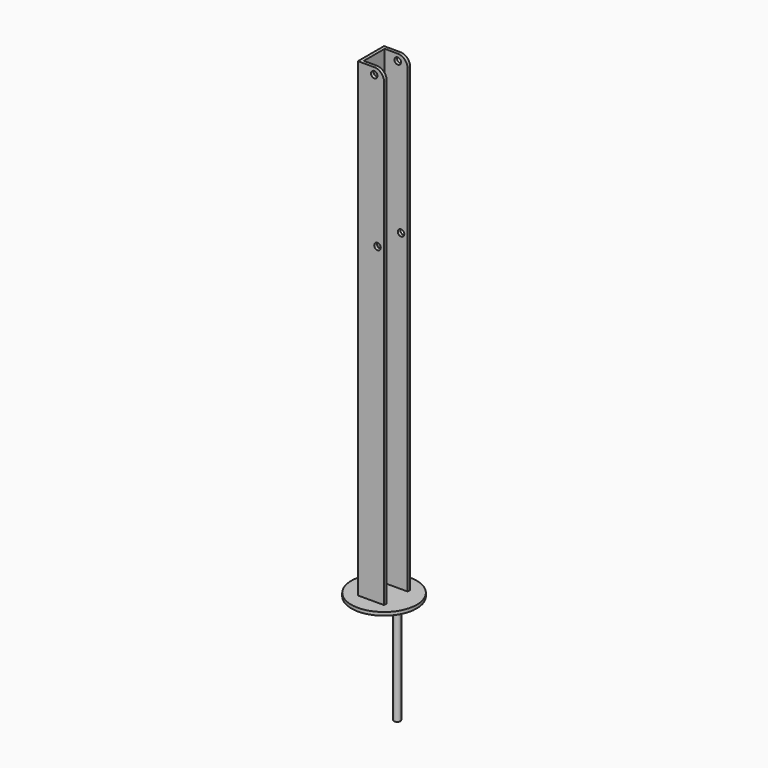
from build123d import *

# Parameters (mm, degrees)
F1_DEPTH = 914.4
F2_R     = 6.35
F3_DEPTH = 63.501
F4_R     = 19.05
F5_R     = 63.5
F6_DEPTH = 6.35
F7_R     = 6.35
F8_DEPTH = 203.2


with BuildPart() as f1:
    # F0 (on Top) → F1 (new body)
    with BuildSketch(Plane.XY):
        Polygon((50.8, 31.75), (0, 31.75), (0, -31.75), (50.8, -31.75), (50.8, -25.4), (6.35, -25.4), (6.35, 25.4), (50.8, 25.4), align=None)
    extrude(amount=F1_DEPTH)

    # F2 (on face) → F3 (cut, through all)
    with BuildSketch(Plane.XZ.offset(31.75)):
        with Locations((31.75, 901.7)):
            Circle(F2_R)
        with Locations((38.1, 609.6)):
            Circle(F2_R)
    extrude(amount=-F3_DEPTH, mode=Mode.SUBTRACT)

    # F4
    f4_edges = [f1.edges().sort_by_distance(p)[0] for p in [
        (50.8, -28.575, 914.4),
        (50.8, 28.575, 914.4),
    ]]
    fillet(f4_edges, radius=F4_R)

    # F5 (on Top) → F6 (join)
    with BuildSketch(Plane.XY):
        with Locations((25.4, 0)):
            Circle(F5_R)
    extrude(amount=-F6_DEPTH)

    # F7 (on face) → F8 (join)
    with BuildSketch(Plane(origin=(0, 0, -6.35), x_dir=(1, 0, 0), z_dir=(0, 0, -1))):
        with Locations((50.8, 0)):
            Circle(F7_R)
    extrude(amount=F8_DEPTH)


solid = f1.part
